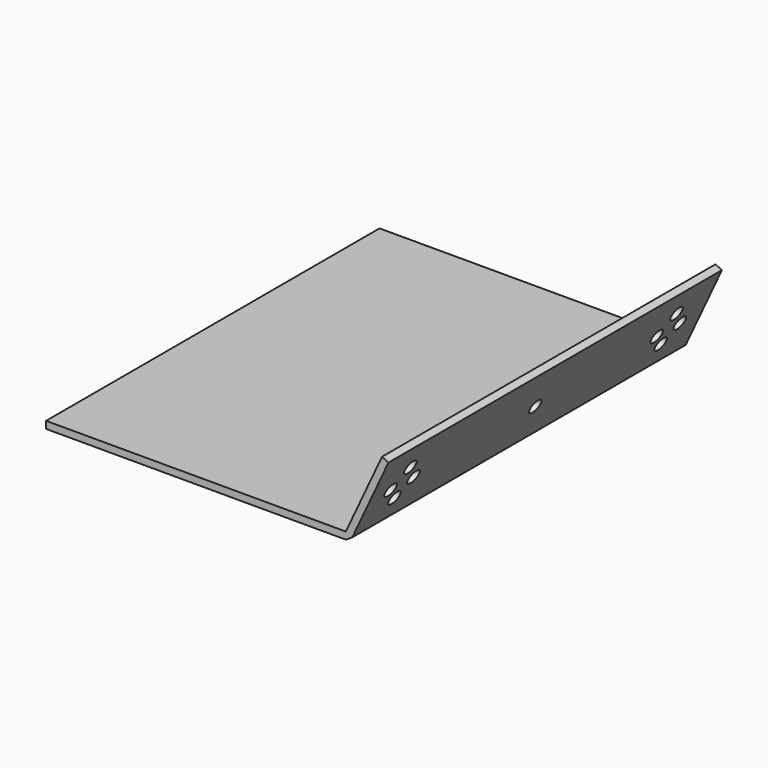
from build123d import *

# Parameters (mm, degrees)
F1_DEPTH = 185.42
F3_D     = 6.35
F4_D     = 6.35
F5_D     = 6.35
F6_D     = 6.35
F7_D     = 6.35
F8_D     = 6.35
F9_D     = 6.35
F10_D    = 6.35
F11_D    = 6.35


with BuildPart() as f1:
    # F0 (on Front) → F1 (new body)
    with BuildSketch(Plane.XZ):
        Polygon((84.939852, 17.701955), (-48.410148, 17.701955), (-48.410148, 14.526955), (84.939852, 14.526955), (87.81738, 16.360142), (103.919135, 50.890469), (101.041608, 52.232282), align=None)
    extrude(amount=F1_DEPTH)

    # F3 (through all)
    with Locations(Plane(origin=(62.988826, 0, -29.372172), x_dir=(0, -1, 0), z_dir=(-0.906308, 0, 0.422618))):
        with Locations((18.711276, 77.739262)):
            Hole(F3_D / 2)

    # F4 (through all)
    with Locations(Plane(origin=(62.988826, 0, -29.372172), x_dir=(0, -1, 0), z_dir=(-0.906308, 0, 0.422618))):
        with Locations((12.696845, 69.705941)):
            Hole(F4_D / 2)

    # F5 (through all)
    with Locations(Plane(origin=(62.988826, 0, -29.372172), x_dir=(0, -1, 0), z_dir=(-0.906308, 0, 0.422618))):
        with Locations((19.600639, 62.646478)):
            Hole(F5_D / 2)

    # F6 (through all)
    with Locations(Plane(origin=(62.988826, 0, -29.372172), x_dir=(0, -1, 0), z_dir=(-0.906308, 0, 0.422618))):
        with Locations((25.494844, 69.705941)):
            Hole(F6_D / 2)

    # F7 (through all)
    with Locations(Plane(origin=(62.988826, 0, -29.372172), x_dir=(0, -1, 0), z_dir=(-0.906308, 0, 0.422618))):
        with Locations((166.728864, 77.739262)):
            Hole(F7_D / 2)

    # F8 (through all)
    with Locations(Plane(origin=(62.988826, 0, -29.372172), x_dir=(0, -1, 0), z_dir=(-0.906308, 0, 0.422618))):
        with Locations((160.714432, 69.705987)):
            Hole(F8_D / 2)

    # F9 (through all)
    with Locations(Plane(origin=(62.988826, 0, -29.372172), x_dir=(0, -1, 0), z_dir=(-0.906308, 0, 0.422618))):
        with Locations((167.618226, 62.646478)):
            Hole(F9_D / 2)

    # F10 (through all)
    with Locations(Plane(origin=(62.988826, 0, -29.372172), x_dir=(0, -1, 0), z_dir=(-0.906308, 0, 0.422618))):
        with Locations((173.512431, 69.705987)):
            Hole(F10_D / 2)

    # F11 (through all)
    with Locations(Plane(origin=(62.988826, 0, -29.372172), x_dir=(0, -1, 0), z_dir=(-0.906308, 0, 0.422618))):
        with Locations((93.104638, 69.76501)):
            Hole(F11_D / 2)


solid = f1.part
